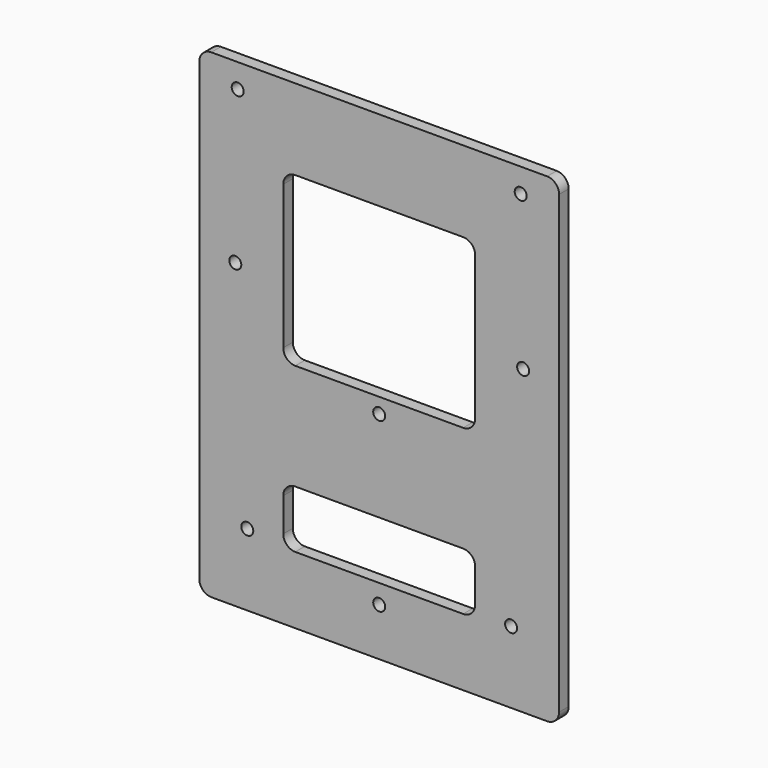
from build123d import *

# Parameters (mm, degrees)
F0_R     = 1.5875
F1_DEPTH = 3.175


with BuildPart() as f1:
    # F0 (on Front) → F1 (new body)
    with BuildSketch(Plane.XZ):
        with BuildLine():
            Line((92.075, 0), (3.175, 0))
            ThreePointArc((3.175, 0), (0.929936, -0.929936), (0, -3.175))
            Line((0, -3.175), (0, -123.825))
            ThreePointArc((0, -123.825), (0.929936, -126.070064), (3.175, -127))
            Line((3.175, -127), (92.075, -127))
            ThreePointArc((92.075, -127), (94.320064, -126.070064), (95.25, -123.825))
            Line((95.25, -123.825), (95.25, -3.175))
            ThreePointArc((95.25, -3.175), (94.320064, -0.929936), (92.075, 0))
        make_face()
        with Locations((12.7, -107.95)):
            Circle(F0_R, mode=Mode.SUBTRACT)
        with Locations((47.625, -114.3)):
            Circle(F0_R, mode=Mode.SUBTRACT)
        with BuildLine():
            Line((25.4, -93.98), (69.85, -93.98))
            ThreePointArc((69.85, -93.98), (72.095064, -94.909936), (73.025, -97.155))
            Line((73.025, -97.155), (73.025, -106.045))
            ThreePointArc((73.025, -106.045), (72.095064, -108.290064), (69.85, -109.22))
            Line((69.85, -109.22), (25.4, -109.22))
            ThreePointArc((25.4, -109.22), (23.154936, -108.290064), (22.225, -106.045))
            Line((22.225, -106.045), (22.225, -97.155))
            ThreePointArc((22.225, -97.155), (23.154936, -94.909936), (25.4, -93.98))
        make_face(mode=Mode.SUBTRACT)
        with Locations((82.55, -107.95)):
            Circle(F0_R, mode=Mode.SUBTRACT)
        with Locations((47.625, -69.85)):
            Circle(F0_R, mode=Mode.SUBTRACT)
        with Locations((9.525, -46.954749)):
            Circle(F0_R, mode=Mode.SUBTRACT)
        with Locations((10.16, -6.35)):
            Circle(F0_R, mode=Mode.SUBTRACT)
        with BuildLine():
            ThreePointArc((22.225, -24.564049), (23.154936, -22.318984), (25.4, -21.389049))
            Line((25.4, -21.389049), (69.85, -21.389049))
            ThreePointArc((69.85, -21.389049), (72.095064, -22.318984), (73.025, -24.564049))
            Line((73.025, -24.564049), (73.025, -62.664049))
            ThreePointArc((73.025, -62.664049), (72.095064, -64.909113), (69.85, -65.839049))
            Line((69.85, -65.839049), (25.4, -65.839049))
            ThreePointArc((25.4, -65.839049), (23.154936, -64.909113), (22.225, -62.664049))
            Line((22.225, -62.664049), (22.225, -24.564049))
        make_face(mode=Mode.SUBTRACT)
        with Locations((85.725, -46.954749)):
            Circle(F0_R, mode=Mode.SUBTRACT)
        with Locations((85.09, -6.35)):
            Circle(F0_R, mode=Mode.SUBTRACT)
    extrude(amount=F1_DEPTH)


solid = f1.part
